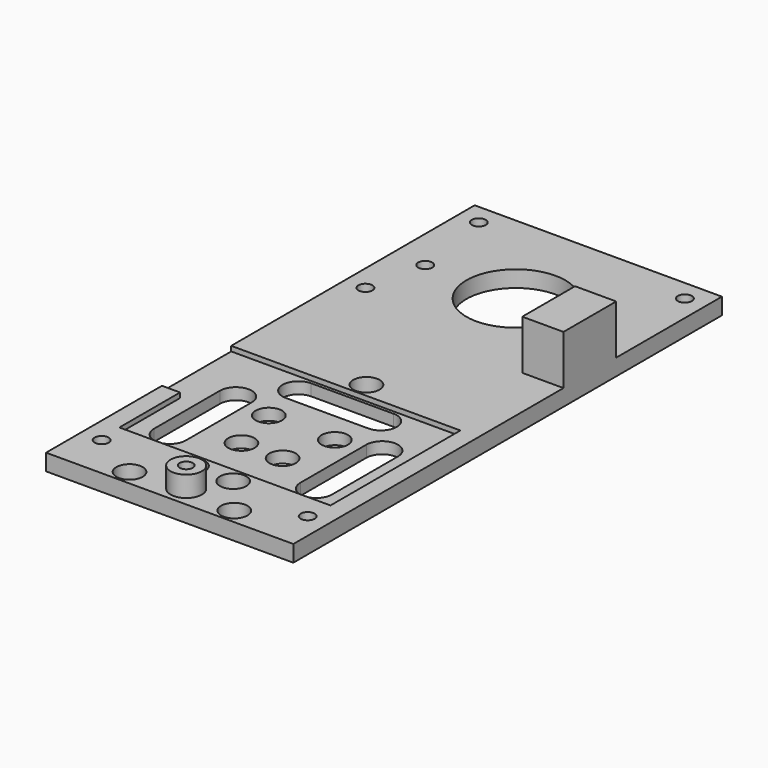
from build123d import *

# Parameters (mm, degrees)
SKETCH_R        = 3.2
SKETCH_R_2      = 1.7
SKETCH_R_3      = 3.6
SKETCH_R_4      = 12
PAD_DEPTH       = 4
POCKET_DEPTH    = 1.2
SKETCH005_R     = 3.8
PAD002_DEPTH    = 5
SKETCH007_R     = 2
POCKET004_DEPTH = 12
SKETCH011_R     = 2
POCKET006_DEPTH = 10
SKETCH012_R     = 1.6
POCKET007_DEPTH = 8
SKETCH013_W     = 10
SKETCH013_H     = 16
PAD003_DEPTH    = 12
SKETCH014_R     = 3.6
POCKET008_DEPTH = 10
SKETCH015_R     = 2
POCKET009_DEPTH = 10
SKETCH016_R     = 1.7
POCKET010_DEPTH = 5


with BuildPart() as part:
    # Sketch → Pad (new body)
    with BuildSketch(Plane.XY):
        Polygon((30, -63), (-30, -63), (-30, 67), (0, 67), (30, 67), (30, -2), (30, -22), (30, -41), align=None)
        with Locations((-12.71, -59.3)):
            Circle(SKETCH_R, mode=Mode.SUBTRACT)
        with Locations((12.71, -59.3)):
            Circle(SKETCH_R, mode=Mode.SUBTRACT)
        with Locations((0, -3.33)):
            Circle(SKETCH_R, mode=Mode.SUBTRACT)
        with Locations((-8, -22.917882)):
            Circle(SKETCH_R, mode=Mode.SUBTRACT)
        with Locations((8, -22.917882)):
            Circle(SKETCH_R, mode=Mode.SUBTRACT)
        with Locations((-5, -35)):
            Circle(SKETCH_R, mode=Mode.SUBTRACT)
        with Locations((5, -35)):
            Circle(SKETCH_R, mode=Mode.SUBTRACT)
        with Locations((-5, -50)):
            Circle(SKETCH_R, mode=Mode.SUBTRACT)
        with Locations((5, -50)):
            Circle(SKETCH_R, mode=Mode.SUBTRACT)
        with Locations((-25, -52.39)):
            Circle(SKETCH_R_2, mode=Mode.SUBTRACT)
        with Locations((25, -52.39)):
            Circle(SKETCH_R_2, mode=Mode.SUBTRACT)
        with Locations((-25, 27.61)):
            Circle(SKETCH_R_2, mode=Mode.SUBTRACT)
        with Locations((25, 27.61)):
            Circle(SKETCH_R_3, mode=Mode.SUBTRACT)
        with Locations((0, 42)):
            Circle(SKETCH_R_4, mode=Mode.SUBTRACT)
        with Locations((-22, 42)):
            Circle(SKETCH_R_2, mode=Mode.SUBTRACT)
        with Locations((22, 42)):
            Circle(SKETCH_R_2, mode=Mode.SUBTRACT)
        with BuildLine():
            ThreePointArc((-21.6, -40.75), (-17.75, -44.6), (-13.9, -40.75))
            Line((-13.9, -40.75), (-13.9, -20.75))
            ThreePointArc((-13.9, -20.75), (-17.75, -16.9), (-21.6, -20.75))
            Line((-21.6, -40.75), (-21.6, -20.75))
        make_face(mode=Mode.SUBTRACT)
        with BuildLine():
            ThreePointArc((13.9, -40.75), (17.75, -44.6), (21.6, -40.75))
            Line((21.6, -40.75), (21.6, -20.75))
            ThreePointArc((21.6, -20.75), (17.75, -16.9), (13.9, -20.75))
            Line((13.9, -40.75), (13.9, -20.75))
        make_face(mode=Mode.SUBTRACT)
        with BuildLine():
            ThreePointArc((-10, -7.6), (-13.85, -11.45), (-10, -15.3))
            Line((-10, -15.3), (10, -15.3))
            ThreePointArc((10, -15.3), (13.85, -11.45), (10, -7.6))
            Line((-10, -7.6), (10, -7.6))
        make_face(mode=Mode.SUBTRACT)
    extrude(amount=PAD_DEPTH)

    # Sketch001 (on Face38 of Pad) → Pocket (cut)
    with BuildSketch(Plane.XY.offset(4)):
        Polygon((25.61, -46.249557), (-25.61, -46.249557), (-25.61, -27.85), (-30, -27.85), (-30, -6.85), (-25.701572, -6.85), (25.61, -6.85), align=None)
    extrude(amount=-POCKET_DEPTH, mode=Mode.SUBTRACT)

    # Sketch005 → Pad002 (join)
    with BuildSketch(Plane.XY.offset(4)):
        with Locations((0, -58)):
            Circle(SKETCH005_R)
    extrude(amount=PAD002_DEPTH)

    # Sketch007 → Pocket004 (cut)
    with BuildSketch(Plane(origin=(25.61, 0, 0), x_dir=(0, -1, 0), z_dir=(-1, 0, 0))):
        with Locations((-25, 10.599272)):
            Circle(SKETCH007_R)
    extrude(amount=-POCKET004_DEPTH, mode=Mode.SUBTRACT)

    # Sketch011 → Pocket006 (cut)
    with BuildSketch(Plane.YZ.offset(30)):
        with Locations((-25, -5.497445)):
            Circle(SKETCH011_R)
    extrude(amount=-POCKET006_DEPTH, mode=Mode.SUBTRACT)

    # Sketch012 (on Face47 of Pocket006) → Pocket007 (cut)
    with BuildSketch(Plane.XY.offset(9)):
        with Locations((0, -58)):
            Circle(SKETCH012_R)
    extrude(amount=-POCKET007_DEPTH, mode=Mode.SUBTRACT)

    # Sketch013 (on Face5 of Pocket007) → Pad003 (join)
    with BuildSketch(Plane.XY.offset(4)):
        with Locations((25, 26.940226)):
            Rectangle(SKETCH013_W, SKETCH013_H)
    extrude(amount=PAD003_DEPTH)

    # Sketch014 (on Face51 of Pad003) → Pocket008 (cut)
    with BuildSketch(Plane(origin=(0, 0, 4), x_dir=(1, 0, 0), z_dir=(0, 0, -1))):
        with Locations((25, -27.61)):
            Circle(SKETCH014_R)
    extrude(amount=-POCKET008_DEPTH, mode=Mode.SUBTRACT)

    # Sketch015 (on Face41 of Pocket008) → Pocket009 (cut)
    with BuildSketch(Plane(origin=(0, 34.940226, 0), x_dir=(-1, 0, 0), z_dir=(0, 1, 0))):
        with Locations((-25, 9.985852)):
            Circle(SKETCH015_R)
    extrude(amount=-POCKET009_DEPTH, mode=Mode.SUBTRACT)

    # Sketch016 (on Face5 of Pocket009) → Pocket010 (cut)
    with BuildSketch(Plane.XY.offset(4)):
        with Locations((-25, 62)):
            Circle(SKETCH016_R)
        with Locations((25, 62)):
            Circle(SKETCH016_R)
    extrude(amount=-POCKET010_DEPTH, mode=Mode.SUBTRACT)


solid = part.part
